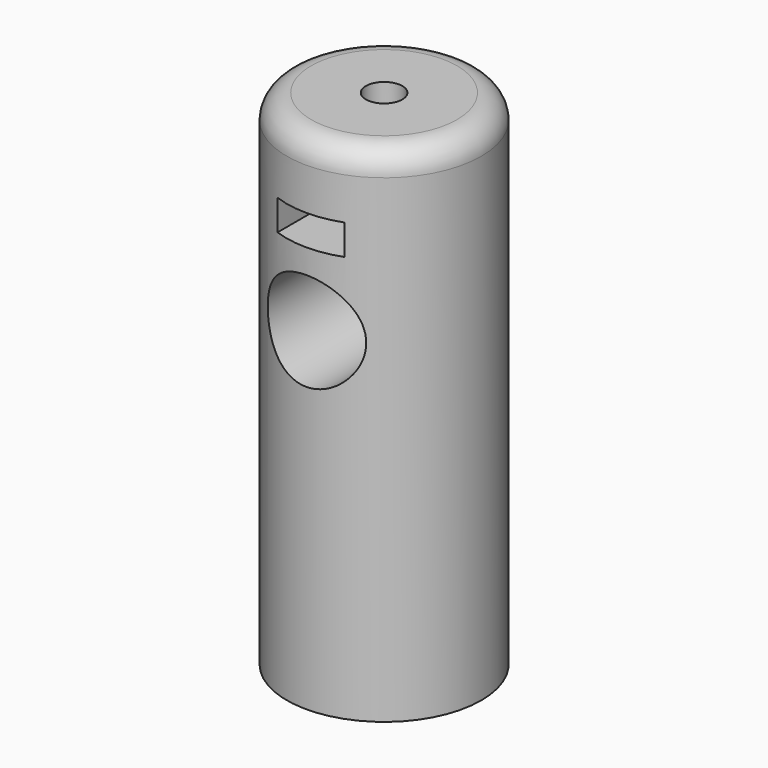
from build123d import *

# Parameters (mm, degrees)
F0_R     = 8
F1_DEPTH = 41.4
F2_R     = 4.05
F2_W     = 5.5
F2_H     = 2.5
F3_DEPTH = 12.5
F4_R     = 1.5
F5_DEPTH = 16
F6_R     = 1.35
F7_DEPTH = 20
F8_R     = 2


with BuildPart() as f1:
    # F0 (on Top) → F1 (new body)
    with BuildSketch(Plane.XY):
        Circle(F0_R)
    extrude(amount=F1_DEPTH)

    # F2 (on Front) → F3 (cut, symmetric)
    with BuildSketch(Plane.XZ):
        with Locations((0, 27.4)):
            Circle(F2_R)
        with Locations((0, 34.7)):
            Rectangle(F2_W, F2_H)
    extrude(amount=F3_DEPTH, both=True, mode=Mode.SUBTRACT)

    # F4 (on face) → F5 (cut)
    with BuildSketch(Plane.XY.offset(41.4)):
        Circle(F4_R)
    extrude(amount=-F5_DEPTH, mode=Mode.SUBTRACT)

    # F6 (on face) → F7 (cut)
    with BuildSketch(Plane(origin=(0, 0, 0), x_dir=(1, 0, 0), z_dir=(0, 0, -1))):
        Circle(F6_R)
    extrude(amount=-F7_DEPTH, mode=Mode.SUBTRACT)

    # F8
    f8_edges = [f1.edges().sort_by_distance(p)[0] for p in [
        (-8, 0, 41.4),
    ]]
    fillet(f8_edges, radius=F8_R)


solid = f1.part
